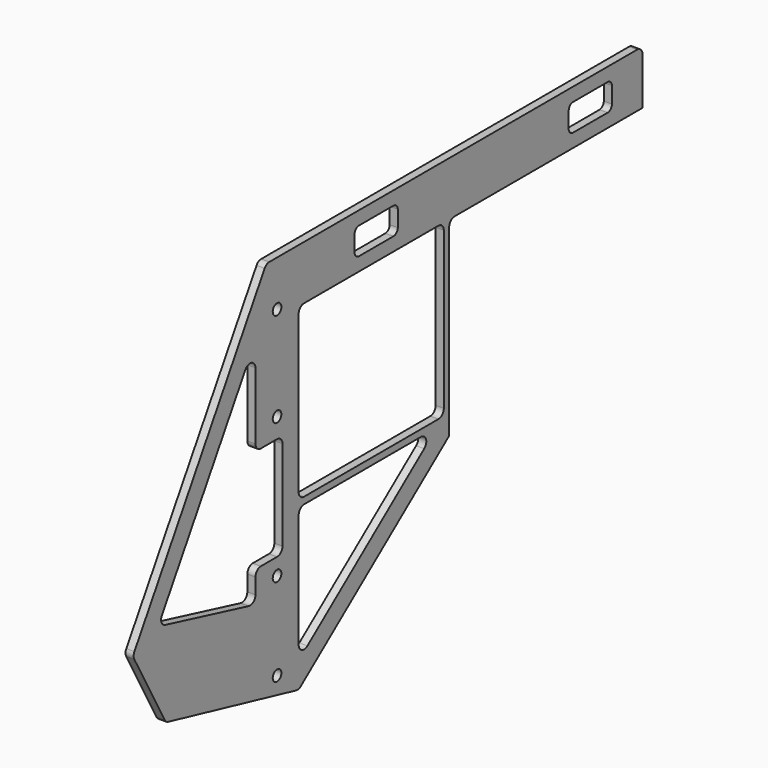
from build123d import *

# Parameters (mm, degrees)
F0_R     = 4
F1_DEPTH = 6


with BuildPart() as f1:
    # F0 (on Right) → F1 (new body)
    with BuildSketch(Plane.YZ):
        with BuildLine():
            Line((343.271519, 40), (2.829941, 40))
            ThreePointArc((2.829941, 40), (0.367113, 39.351377), (-1.456736, 37.573792))
            Line((-1.456736, 37.573792), (-122.060189, -163.29246))
            ThreePointArc((-122.060189, -163.29246), (-122.772673, -165.774574), (-122.151676, -168.281142))
            Line((-122.151676, -168.281142), (-94.000995, -219.317944))
            ThreePointArc((-94.000995, -219.317944), (-92.641542, -220.888954), (-90.760917, -221.771808))
            Line((-90.760917, -221.771808), (27.667921, -249.45487))
            ThreePointArc((27.667921, -249.45487), (29.882843, -249.468782), (31.886444, -248.524504))
            Line((31.886444, -248.524504), (169.360936, -140.997829))
            Line((169.360936, -140.997829), (169.360936, -111.695941))
            Line((169.360936, -111.695941), (169.360936, -95.979087))
            Line((169.360936, -95.979087), (169.360936, -5))
            ThreePointArc((169.360936, -5), (170.825402, -1.464466), (174.360936, 0))
            Line((174.360936, 0), (310.773321, 0))
            Line((310.773321, 0), (348.078632, 0))
            ThreePointArc((348.078632, 0), (348.223062, 0.680958), (348.271519, 1.375377))
            Line((348.271519, 1.375377), (348.271519, 35))
            ThreePointArc((348.271519, 35), (346.807053, 38.535534), (343.271519, 40))
        make_face()
        with Locations((10, -232.534826)):
            Circle(F0_R, mode=Mode.SUBTRACT)
        with BuildLine():
            ThreePointArc((38.080439, -224.6365), (32.80936, -225.192676), (30, -220.698113))
            Line((30, -220.698113), (30, -136.104171))
            ThreePointArc((30, -136.104171), (31.464466, -132.568637), (35, -131.104171))
            Line((35, -131.104171), (143.154642, -131.104171))
            ThreePointArc((143.154642, -131.104171), (147.881794, -134.475052), (146.235081, -140.042559))
            Line((146.235081, -140.042559), (38.080439, -224.6365))
        make_face(mode=Mode.SUBTRACT)
        with Locations((10, -167.534826)):
            Circle(F0_R, mode=Mode.SUBTRACT)
        with BuildLine():
            Line((-96.609933, -150.044687), (-19.286676, -21.262034))
            ThreePointArc((-19.286676, -21.262034), (-13.664594, -19.017456), (-10, -23.835826))
            Line((-10, -23.835826), (-10, -73.426853))
            ThreePointArc((-10, -73.426853), (-8.535534, -76.962387), (-5, -78.426853))
            Line((-5, -78.426853), (10, -78.426853))
            ThreePointArc((10, -78.426853), (13.535534, -79.891319), (15, -83.426853))
            Line((15, -83.426853), (15, -150.18547))
            ThreePointArc((15, -150.18547), (13.535534, -153.721004), (10, -155.18547))
            Line((10, -155.18547), (-5, -155.18547))
            ThreePointArc((-5, -155.18547), (-8.535534, -156.649936), (-10, -160.18547))
            Line((-10, -160.18547), (-10, -171.782648))
            ThreePointArc((-10, -171.782648), (-11.918942, -175.720551), (-16.202831, -176.635812))
            Line((-16.202831, -176.635812), (-93.526088, -157.471643))
            ThreePointArc((-93.526088, -157.471643), (-96.941004, -154.535875), (-96.609933, -150.044687))
        make_face(mode=Mode.SUBTRACT)
        with Locations((10, -63.772887)):
            Circle(F0_R, mode=Mode.SUBTRACT)
        with BuildLine():
            ThreePointArc((30, -5), (31.464466, -1.464466), (35, 0))
            Line((35, 0), (159.360936, 0))
            ThreePointArc((159.360936, 0), (162.89647, -1.464466), (164.360936, -5))
            Line((164.360936, -5), (164.360936, -107.121611))
            Line((164.360936, -107.121611), (164.360936, -121.104171))
            ThreePointArc((164.360936, -121.104171), (162.89647, -124.639705), (159.360936, -126.104171))
            Line((159.360936, -126.104171), (151.236403, -126.104171))
            Line((151.236403, -126.104171), (35, -126.104171))
            ThreePointArc((35, -126.104171), (31.464466, -124.639705), (30, -121.104171))
            Line((30, -121.104171), (30, -5))
        make_face(mode=Mode.SUBTRACT)
        with Locations((10, 6.227113)):
            Circle(F0_R, mode=Mode.SUBTRACT)
        with BuildLine():
            ThreePointArc((121.758985, 14), (120.587412, 11.171573), (117.758985, 10))
            Line((117.758985, 10), (85.758985, 10))
            ThreePointArc((85.758985, 10), (82.930557, 11.171573), (81.758985, 14))
            Line((81.758985, 14), (81.758985, 20))
            Line((81.758985, 20), (81.758985, 26))
            ThreePointArc((81.758985, 26), (82.930557, 28.828427), (85.758985, 30))
            Line((85.758985, 30), (117.758985, 30))
            ThreePointArc((117.758985, 30), (120.587412, 28.828427), (121.758985, 26))
            Line((121.758985, 26), (121.758985, 20))
            Line((121.758985, 20), (121.758985, 14))
        make_face(mode=Mode.SUBTRACT)
        with BuildLine():
            ThreePointArc((279.992832, 26), (281.164405, 28.828427), (283.992832, 30))
            Line((283.992832, 30), (315.992832, 30))
            ThreePointArc((315.992832, 30), (318.821259, 28.828427), (319.992832, 26))
            Line((319.992832, 26), (319.992832, 20))
            Line((319.992832, 20), (319.992832, 14))
            ThreePointArc((319.992832, 14), (318.821259, 11.171573), (315.992832, 10))
            Line((315.992832, 10), (283.992832, 10))
            ThreePointArc((283.992832, 10), (281.164405, 11.171573), (279.992832, 14))
            Line((279.992832, 14), (279.992832, 20))
            Line((279.992832, 20), (279.992832, 26))
        make_face(mode=Mode.SUBTRACT)
    extrude(amount=F1_DEPTH)


solid = f1.part
